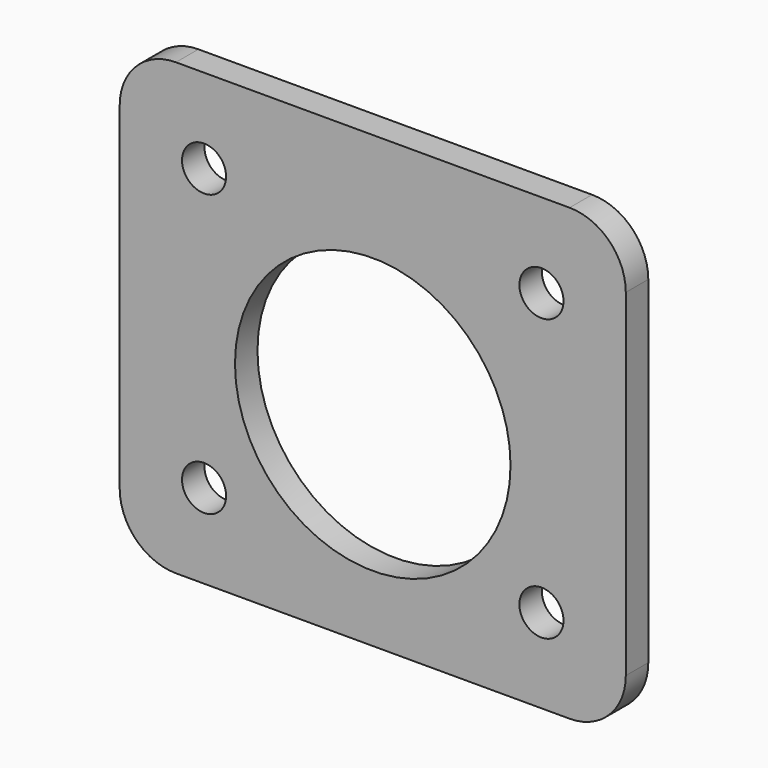
from build123d import *

# Parameters (mm, degrees)
F0_W     = 57.15
F0_H     = 50.8
F0_R     = 2.4892
F0_R_2   = 15.5575
F1_DEPTH = 1.5875
F2_R     = 6.35


with BuildPart() as f1:
    # F0 (on Front) → F1 (new body, symmetric)
    with BuildSketch(Plane.XZ):
        Rectangle(F0_W, F0_H)
        with Locations((-19.05, -15.875)):
            Circle(F0_R, mode=Mode.SUBTRACT)
        with Locations((19.05, -15.875)):
            Circle(F0_R, mode=Mode.SUBTRACT)
        with Locations((0, -2.38125)):
            Circle(F0_R_2, mode=Mode.SUBTRACT)
        with Locations((-19.05, 15.875)):
            Circle(F0_R, mode=Mode.SUBTRACT)
        with Locations((19.05, 15.875)):
            Circle(F0_R, mode=Mode.SUBTRACT)
    extrude(amount=F1_DEPTH, both=True)

    # F2
    f2_edges = [f1.edges().sort_by_distance(p)[0] for p in [
        (-28.575, 0, 25.4),
        (28.575, 0, 25.4),
        (28.575, 0, -25.4),
        (-28.575, 0, -25.4),
    ]]
    fillet(f2_edges, radius=F2_R)


solid = f1.part
